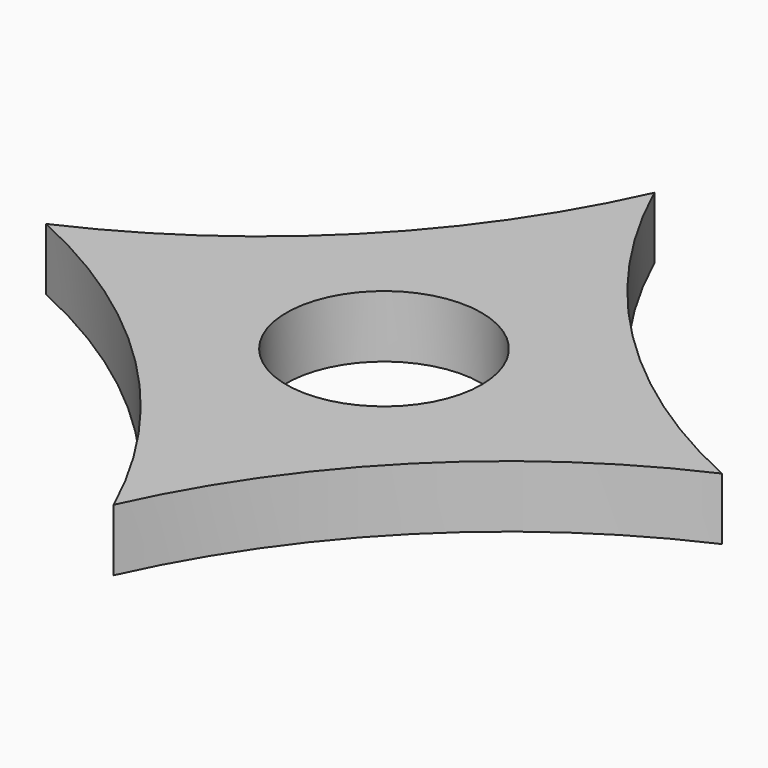
from build123d import *

# Parameters (mm, degrees)
F1_DEPTH = 7.000011
F2_R     = 11
F3_DEPTH = 7.001011


with BuildPart() as f1:
    # F0 (on Top) → F1 (new body)
    with BuildSketch(Plane.XY):
        with BuildLine():
            ThreePointArc((0, -38.1), (15.570026, -15.570026), (38.1, 0))
            ThreePointArc((38.1, 0), (15.570026, 15.570026), (0, 38.1))
            ThreePointArc((0, 38.1), (-15.570026, 15.570026), (-38.1, 0))
            ThreePointArc((-38.1, 0), (-15.570026, -15.570026), (0, -38.1))
        make_face()
    extrude(amount=F1_DEPTH)

    # F2 (on face) → F3 (cut, through all)
    with BuildSketch(Plane.XY.offset(7.000011)):
        Circle(F2_R)
    extrude(amount=-F3_DEPTH, mode=Mode.SUBTRACT)


solid = f1.part
